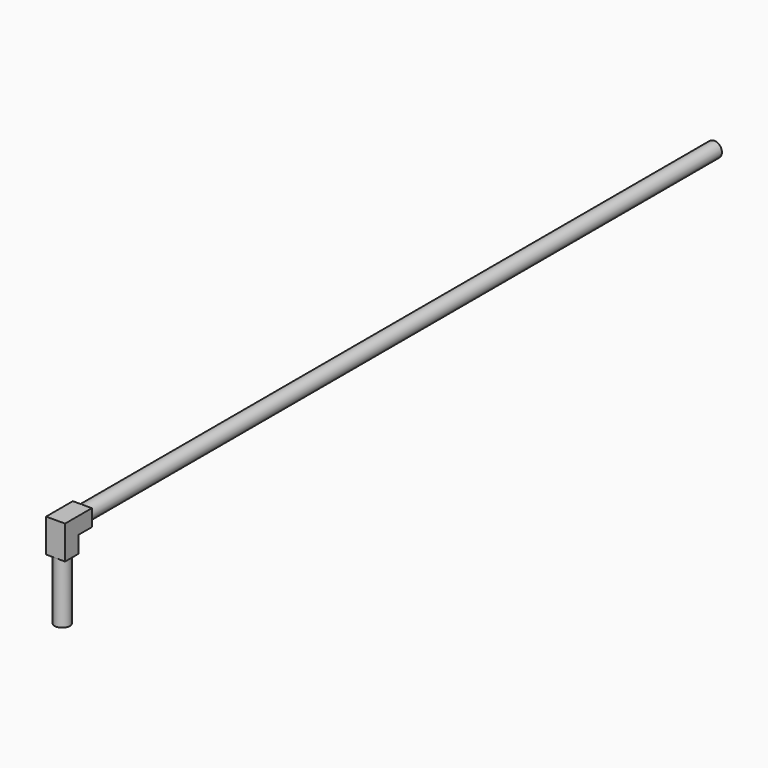
from build123d import *

# Parameters (mm, degrees)
F1_DEPTH = 31.75
F2_R     = 12.7
F3_DEPTH = 1320.8
F4_R     = 12.7
F5_DEPTH = 101.6


with BuildPart() as f1:
    # F0 (on Right) → F1 (new body)
    with BuildSketch(Plane.YZ):
        Polygon((-25.733576, 56.262951), (-53.673576, 56.262951), (-53.673576, 0.382951), (-25.733576, 0.382951), (-25.733576, 28.322951), (2.206424, 28.322951), (2.206424, 56.262951), align=None)
    extrude(amount=F1_DEPTH)

    # F2 (on face) → F3 (join)
    with BuildSketch(Plane(origin=(0, 2.206424, 0), x_dir=(-1, 0, 0), z_dir=(0, 1, 0))):
        with Locations((-15.875, 42.292951)):
            Circle(F2_R)
    extrude(amount=F3_DEPTH)

    # F4 (on face) → F5 (join)
    with BuildSketch(Plane(origin=(0, 0, 0.382951), x_dir=(1, 0, 0), z_dir=(0, 0, -1))):
        with Locations((15.875, 39.703576)):
            Circle(F4_R)
    extrude(amount=F5_DEPTH)


solid = f1.part
